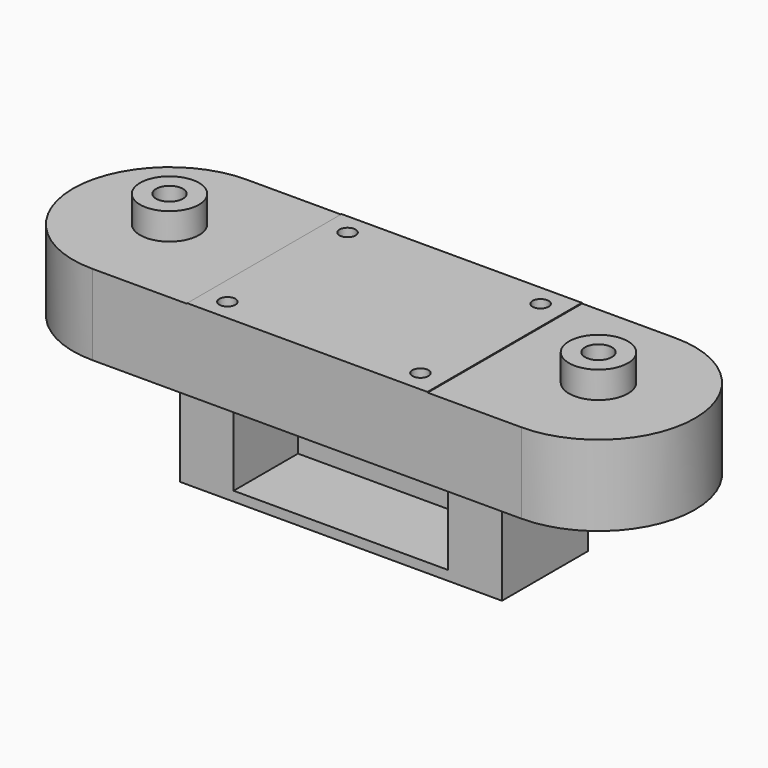
from build123d import *

# Parameters (mm, degrees)
PAD_DEPTH       = 15
SKETCH002_W     = 44.8548
SKETCH002_H     = 24.142434
POCKET_DEPTH    = 36
SKETCH003_W     = 44.808823
SKETCH003_H     = 36
SKETCH003_R     = 1.5
PAD001_DEPTH    = 7.45
SKETCH004_R     = 5.5
SKETCH004_R_2   = 2.5
PAD002_DEPTH    = 5
SKETCH005_W     = 60
SKETCH005_H     = 20
PAD003_DEPTH    = 20
SKETCH006_W     = 40
SKETCH006_H     = 16.335257
POCKET001_DEPTH = 15


with BuildPart() as part:
    # Sketch001 → Pad (new body)
    with BuildSketch(Plane.XY):
        with BuildLine():
            ThreePointArc((-40, 18), (-58, 0), (-40, -18))
            Line((40, -18), (-40, -18))
            ThreePointArc((40, -18), (58, 0), (40, 18))
            Line((-40, 18), (40, 18))
        make_face()
    extrude(amount=PAD_DEPTH)

    # Sketch002 (on DatumPlane) → Pocket (cut)
    with BuildSketch(Plane.XZ.offset(18)):
        with Locations((0.118577, 19.728132)):
            Rectangle(SKETCH002_W, SKETCH002_H)
    extrude(amount=-POCKET_DEPTH, mode=Mode.SUBTRACT)

    # Sketch003 (on Face9 of Pocket) → Pad001 (join)
    with BuildSketch(Plane.XY.offset(7.656915)):
        with Locations((0.095588, 0)):
            Rectangle(SKETCH003_W, SKETCH003_H)
        with Locations((-18, 14)):
            Circle(SKETCH003_R, mode=Mode.SUBTRACT)
        with Locations((18, 14)):
            Circle(SKETCH003_R, mode=Mode.SUBTRACT)
        with Locations((18, -14)):
            Circle(SKETCH003_R, mode=Mode.SUBTRACT)
        with Locations((-18, -14)):
            Circle(SKETCH003_R, mode=Mode.SUBTRACT)
    extrude(amount=PAD001_DEPTH)

    # Sketch004 (on Face5 of Pad001) → Pad002 (join)
    with BuildSketch(Plane.XY.offset(15)):
        with Locations((-40, 0)):
            Circle(SKETCH004_R)
        with Locations((-40, 0)):
            Circle(SKETCH004_R_2, mode=Mode.SUBTRACT)
        with Locations((40, 0)):
            Circle(SKETCH004_R)
        with Locations((40, 0)):
            Circle(SKETCH004_R_2, mode=Mode.SUBTRACT)
    extrude(amount=PAD002_DEPTH)

    # Sketch005 (on Face4 of Pad002) → Pad003 (join)
    with BuildSketch(Plane(origin=(0, 0, 0), x_dir=(1, 0, 0), z_dir=(0, 0, -1))):
        Rectangle(SKETCH005_W, SKETCH005_H)
    extrude(amount=PAD003_DEPTH)

    # Sketch006 (on Face12 of Pad003) → Pocket001 (cut)
    with BuildSketch(Plane.XZ.offset(10)):
        with Locations((-0.04431, -10.038293)):
            Rectangle(SKETCH006_W, SKETCH006_H)
    extrude(amount=-POCKET001_DEPTH, mode=Mode.SUBTRACT)


solid = part.part
